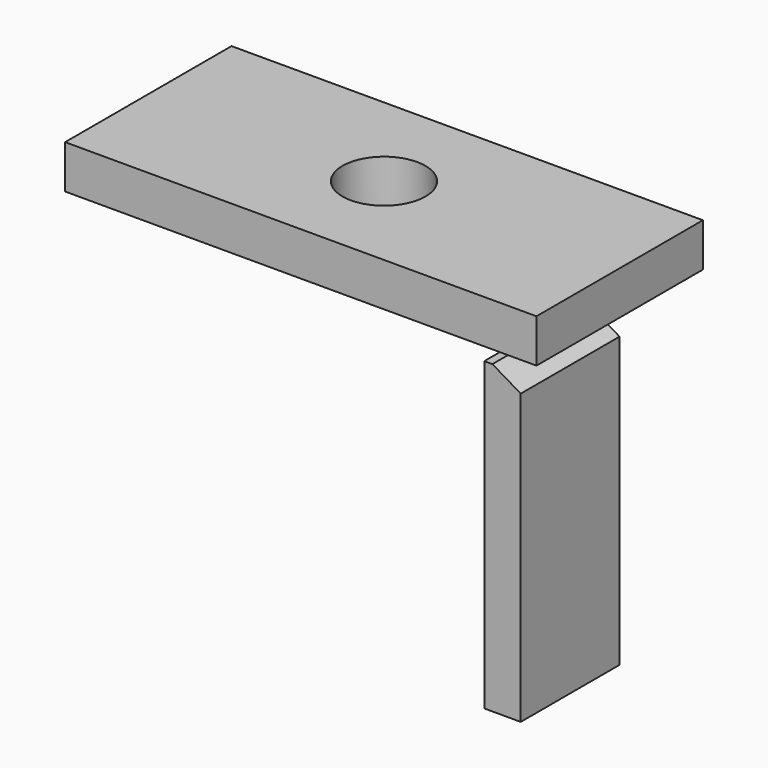
from build123d import *

# Parameters (mm, degrees)
F0_W     = 360.66404
F0_H     = 159.165882
F1_DEPTH = 33.274
F3_DEPTH = 94.488
F5_D     = 63.5


with BuildPart() as f1:
    # F0 (on Top) → F1 (new body)
    with BuildSketch(Plane.XY):
        Rectangle(F0_W, F0_H)
    extrude(amount=F1_DEPTH)

    # F2 (on Front) → F3 (join)
    with BuildSketch(Plane.XZ):
        Polygon((158.531552, 0), (152.299196, 0), (152.299196, -233.95633), (180.216238, -233.95633), (180.216238, -12.82501), align=None)
    extrude(amount=F3_DEPTH)

    # F5 (through all)
    with Locations(Plane.XY.offset(33.274)):
        with Locations((0, 0)):
            Hole(F5_D / 2)


solid = f1.part
